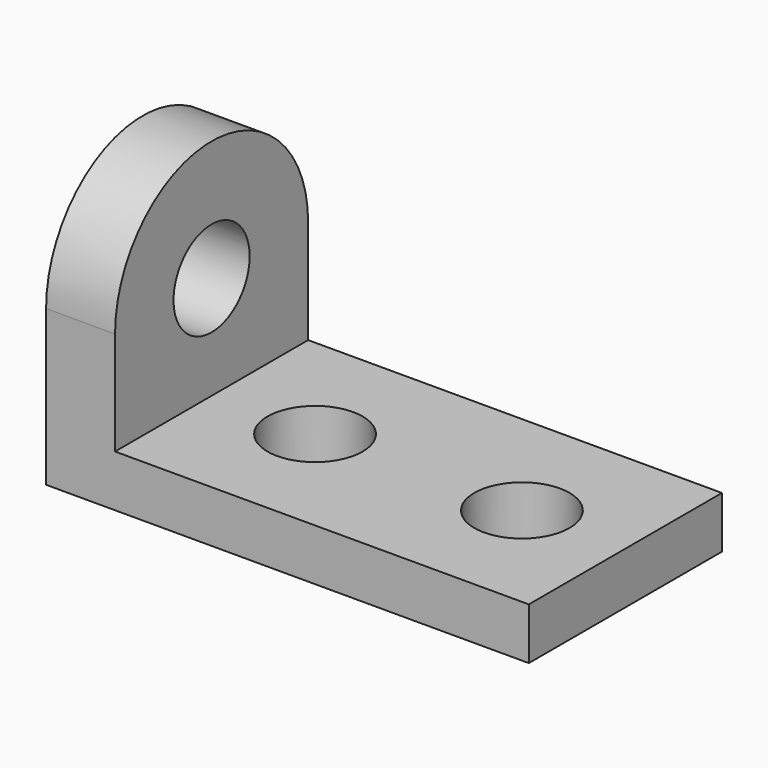
from build123d import *

# Parameters (mm, degrees)
F0_R     = 26.900077
F0_R_2   = 17.526
F1_DEPTH = 19.05
F3_DEPTH = 25.4


with BuildPart() as f1:
    # F0 (on Top) → F1 (new body)
    with BuildSketch(Plane.XY):
        Polygon((0, 88.9), (0, 0), (152.4, 0), (152.4, 44.45), (152.4, 88.9), align=None)
        with Locations((38.1, 44.45)):
            Circle(F0_R, mode=Mode.SUBTRACT)
        with BuildLine():
            ThreePointArc((96.774, 44.45), (114.3, 61.976), (131.826, 44.45))
            ThreePointArc((131.826, 44.45), (114.3, 26.924), (96.774, 44.45))
        make_face(mode=Mode.SUBTRACT)
        with Locations((38.1, 44.45)):
            Circle(F0_R)
        with Locations((38.1, 44.45)):
            Circle(F0_R_2, mode=Mode.SUBTRACT)
    extrude(amount=F1_DEPTH)

    # F2 (on face) → F3 (join)
    with BuildSketch(Plane(origin=(0, 0, 0), x_dir=(0, -1, 0), z_dir=(-1, 0, 0))):
        with BuildLine():
            ThreePointArc((-21.554749, 19.05), (-5.76217, 35.262691), (0, 57.15))
            Line((0, 57.15), (-26.924, 57.15))
            ThreePointArc((-26.924, 57.15), (-44.45, 39.624), (-61.976, 57.15))
            Line((-61.976, 57.15), (-88.9, 57.15))
            ThreePointArc((-88.9, 57.15), (-83.13783, 35.262691), (-67.345251, 19.05))
            Line((-67.345251, 19.05), (-21.554749, 19.05))
        make_face()
        with BuildLine():
            Line((-21.554749, 19.05), (0, 19.05))
            Line((0, 19.05), (0, 57.15))
            ThreePointArc((0, 57.15), (-5.76217, 35.262691), (-21.554749, 19.05))
        make_face()
        with BuildLine():
            Line((-88.9, 57.15), (-88.9, 19.05))
            Line((-88.9, 19.05), (-67.345251, 19.05))
            ThreePointArc((-67.345251, 19.05), (-83.13783, 35.262691), (-88.9, 57.15))
        make_face()
        with BuildLine():
            ThreePointArc((-67.345251, 19.05), (-44.45, 12.7), (-21.554749, 19.05))
            Line((-21.554749, 19.05), (-67.345251, 19.05))
        make_face()
        with BuildLine():
            Line((-88.9, 0), (0, 0))
            Line((0, 0), (0, 19.05))
            Line((0, 19.05), (-21.554749, 19.05))
            ThreePointArc((-21.554749, 19.05), (-44.45, 12.7), (-67.345251, 19.05))
            Line((-67.345251, 19.05), (-88.9, 19.05))
            Line((-88.9, 19.05), (-88.9, 0))
        make_face()
        with BuildLine():
            Line((-26.924, 57.15), (0, 57.15))
            ThreePointArc((0, 57.15), (-44.45, 101.6), (-88.9, 57.15))
            Line((-88.9, 57.15), (-61.976, 57.15))
            ThreePointArc((-61.976, 57.15), (-44.45, 74.676), (-26.924, 57.15))
        make_face()
    extrude(amount=F3_DEPTH)


solid = f1.part
